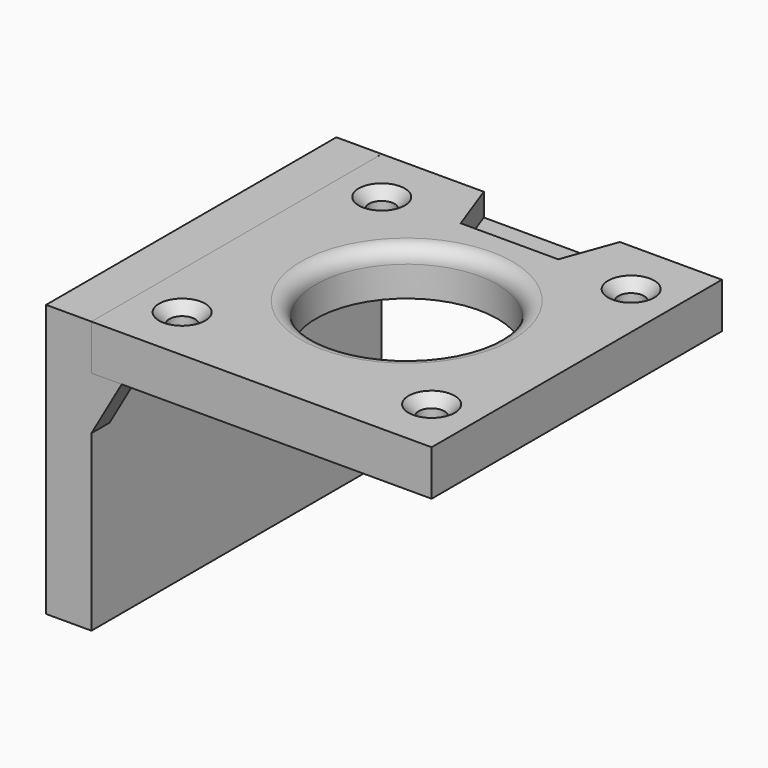
from build123d import *

# Parameters (mm, degrees)
BINDER006_W         = 48
BINDER006_H         = 45
PAD003_DEPTH        = 6
HOLE002_D           = 3.4
HOLE002_CSINK_D     = 6.1
HOLE002_CSINK_ANGLE = 90
SKETCH013_R         = 12
POCKET003_DEPTH     = 6.001
FILLET001_R         = 2
POCKET004_DEPTH     = 3
SKETCH010_W         = 6
SKETCH010_H         = 48
PAD004_DEPTH        = 6
PAD004_DEPTH_BACK   = 30
PAD005_DEPTH        = 3


with BuildPart() as body005:
    # Binder006 → Pad003 (new body)
    with BuildSketch(Plane(origin=(0, 0, 0), x_dir=(0, 1, 0), z_dir=(0, 0, 1))):
        Rectangle(BINDER006_W, BINDER006_H)
    extrude(amount=PAD003_DEPTH)

    # Hole002 (through all)
    with Locations(Plane.XY.offset(6)):
        with Locations((-16.5, 16.5), (-16.5, -16.5), (16.5, -16.5), (16.5, 16.5)):
            CounterSinkHole(HOLE002_D / 2, HOLE002_CSINK_D / 2, counter_sink_angle=HOLE002_CSINK_ANGLE)

    # Sketch013 (on Face5 of Hole002) → Pocket003 (cut, through all)
    with BuildSketch(Plane.XY.offset(6)):
        Circle(SKETCH013_R)
    extrude(amount=-POCKET003_DEPTH, mode=Mode.SUBTRACT)

    # Fillet001
    fillet001_edges = [body005.edges().sort_by_distance(p)[0] for p in [
        (-12, 0, 6),
    ]]
    fillet(fillet001_edges, radius=FILLET001_R)

    # Sketch014 (on Face1 of Fillet001) → Pocket004 (cut)
    with BuildSketch(Plane.XY.offset(6)):
        Polygon((-9, 24), (-6.452208, 17), (6.452208, 17), (9, 24), align=None)
    extrude(amount=-POCKET004_DEPTH, mode=Mode.SUBTRACT)


with BuildPart() as body006:
    # Sketch010 (on Face1 of Binder007) → Pad004 (new body, two sides)
    with BuildSketch(Plane.XY) as pad004_sk:
        with Locations((-25.5, 0)):
            Rectangle(SKETCH010_W, SKETCH010_H)
    extrude(amount=PAD004_DEPTH)
    extrude(pad004_sk.sketch, amount=-PAD004_DEPTH_BACK)

    # Sketch011 (on Face3 of Pad004) → Pad005 (join)
    with BuildSketch(Plane.XZ.offset(24)):
        Polygon((-22.5, 0), (-22.5, -7), (-18.5, 0), align=None)
    pad005 = extrude(amount=-PAD005_DEPTH)

    # Mirrored001: Pad005 across XZ
    add(pad005.mirror(Plane.XZ))


solid = Compound([body005.part, body006.part])
